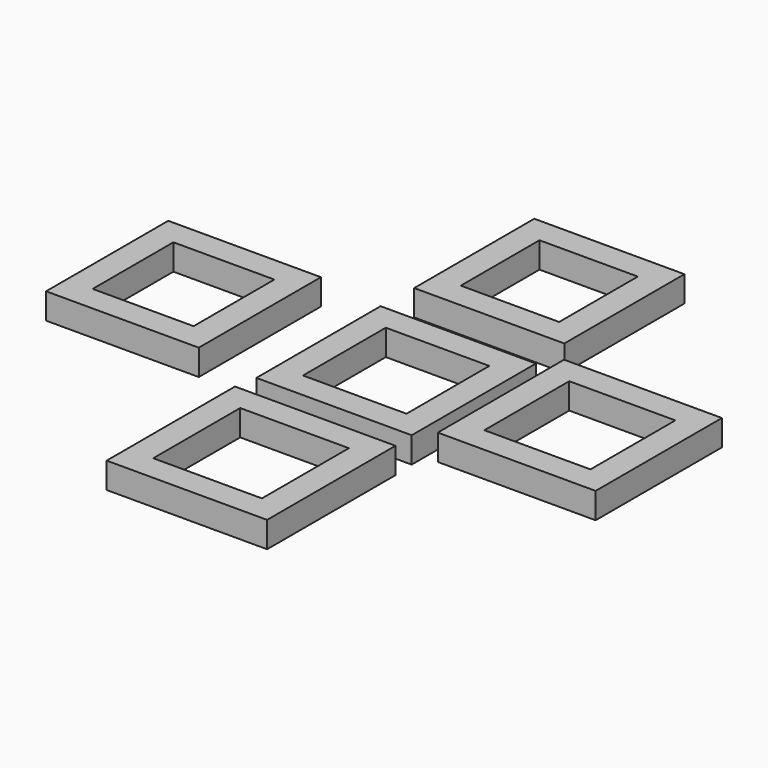
from build123d import *

# Parameters (mm, degrees)
F0_W      = 30
F0_H      = 30
F1_DEPTH  = 5
F2_W      = 20
F2_H      = 20
F3_DEPTH  = 5
F4_W      = 29
F4_H      = 29
F4_W_2    = 19
F4_H_2    = 19
F5_DEPTH  = 5
F6_W      = 31
F6_H      = 31
F6_W_2    = 21
F6_H_2    = 21
F7_DEPTH  = 5
F8_W      = 30.5
F8_H      = 30.5
F8_W_2    = 20.5
F8_H_2    = 20.5
F9_DEPTH  = 5
F10_W     = 29.5
F10_H     = 29.5
F10_W_2   = 19.5
F10_H_2   = 19.5
F11_DEPTH = 5


with BuildPart() as f1:
    # F0 (on Top) → F1 (new body)
    with BuildSketch(Plane.XY):
        Rectangle(F0_W, F0_H)
    extrude(amount=F1_DEPTH)

    # F2 (on face) → F3 (cut)
    with BuildSketch(Plane.XY.offset(5)):
        Rectangle(F2_W, F2_H)
    extrude(amount=-F3_DEPTH, mode=Mode.SUBTRACT)


with BuildPart() as f5:
    # F4 (on Top) → F5 (new body)
    with BuildSketch(Plane.XY):
        with Locations((-0.247106, 37.29578)):
            Rectangle(F4_W, F4_H)
        with Locations((-0.247106, 37.29578)):
            Rectangle(F4_W_2, F4_H_2, mode=Mode.SUBTRACT)
    extrude(amount=F5_DEPTH)


with BuildPart() as f7:
    # F6 (on Top) → F7 (new body)
    with BuildSketch(Plane.XY):
        with Locations((-0.25801, -34.717155)):
            Rectangle(F6_W, F6_H)
        with Locations((-0.25801, -34.717155)):
            Rectangle(F6_W_2, F6_H_2, mode=Mode.SUBTRACT)
    extrude(amount=F7_DEPTH)


with BuildPart() as f9:
    # F8 (on Top) → F9 (new body)
    with BuildSketch(Plane.XY):
        with Locations((32.779088, 3.389017)):
            Rectangle(F8_W, F8_H)
        with Locations((32.779088, 3.389017)):
            Rectangle(F8_W_2, F8_H_2, mode=Mode.SUBTRACT)
    extrude(amount=F9_DEPTH)


with BuildPart() as f11:
    # F10 (on Top) → F11 (new body)
    with BuildSketch(Plane.XY):
        with Locations((-42.704044, 2.025584)):
            Rectangle(F10_W, F10_H)
        with Locations((-42.704044, 2.025584)):
            Rectangle(F10_W_2, F10_H_2, mode=Mode.SUBTRACT)
    extrude(amount=F11_DEPTH)


solid = Compound([f1.part, f5.part, f7.part, f9.part, f11.part])
